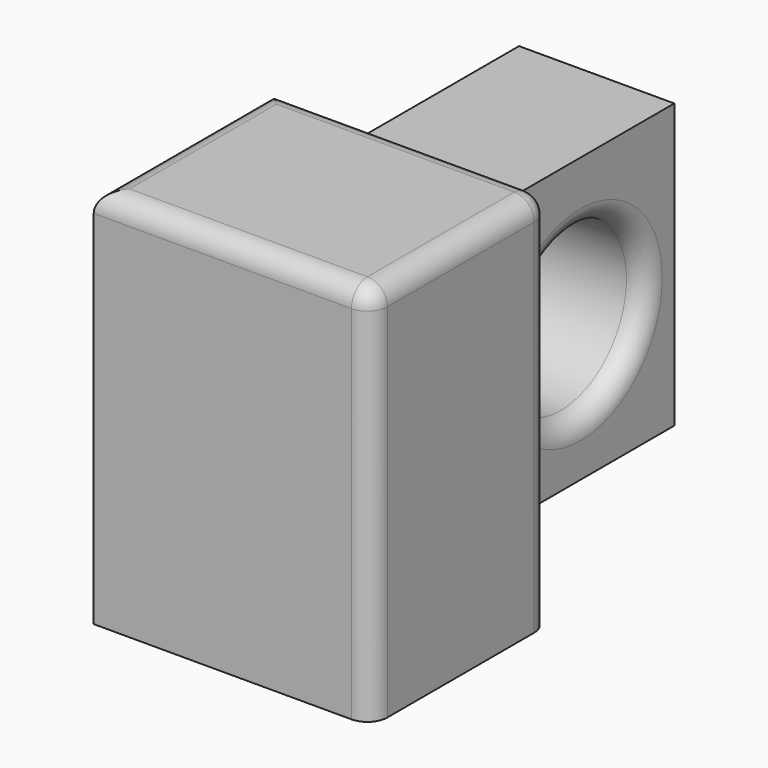
from build123d import *

# Parameters (mm, degrees)
F0_W     = 70.792555
F0_H     = 56.937516
F1_DEPTH = 97.26762
F2_R     = 5.08
F3_R     = 5.08
F4_W     = 39.581746
F4_H     = 72.326273
F5_DEPTH = 58.996573
F6_R     = 20.976362
F7_DEPTH = 77.683359
F8_R     = 5.08


with BuildPart() as f1:
    # F0 (on Top) → F1 (new body)
    with BuildSketch(Plane.XY):
        with Locations((51.602363, 28.468758)):
            Rectangle(F0_W, F0_H)
    extrude(amount=F1_DEPTH)

    # F2
    f2_edges = [f1.edges().sort_by_distance(p)[0] for p in [
        (86.998641, 28.468758, 97.26762),
    ]]
    fillet(f2_edges, radius=F2_R)

    # F3
    f3_edges = [f1.edges().sort_by_distance(p)[0] for p in [
        (16.206086, 28.468758, 97.26762),
        (49.062364, 0, 97.26762),
        (49.062364, 56.937516, 97.26762),
    ]]
    fillet(f3_edges, radius=F3_R)

    # F4 (on face) → F5 (join)
    with BuildSketch(Plane(origin=(0, 56.937516, 0), x_dir=(-1, 0, 0), z_dir=(0, 1, 0))):
        with Locations((-51.677324, 51.547486)):
            Rectangle(F4_W, F4_H)
    extrude(amount=F5_DEPTH)

    # F6 (on face) → F7 (cut)
    with BuildSketch(Plane(origin=(31.886451, 0, 0), x_dir=(0, -1, 0), z_dir=(-1, 0, 0))):
        with Locations((-86.047255, 50.220259)):
            Circle(F6_R)
    extrude(amount=-F7_DEPTH, mode=Mode.SUBTRACT)

    # F8
    f8_edges = [f1.edges().sort_by_distance(p)[0] for p in [
        (71.468197, 107.023617, 50.220259),
        (31.886451, 107.023617, 50.220259),
    ]]
    fillet(f8_edges, radius=F8_R)


solid = f1.part
